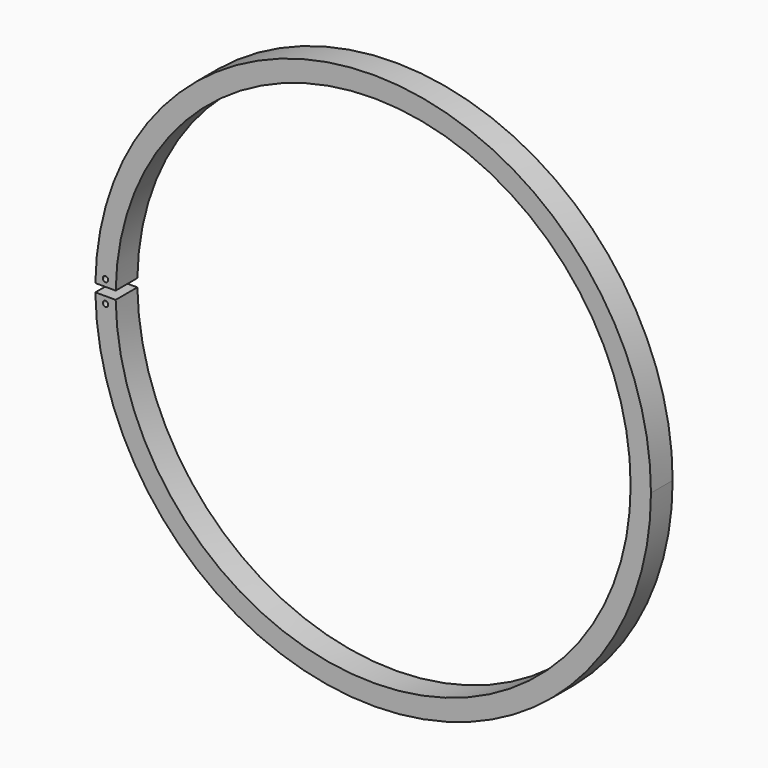
from build123d import *

# Parameters (mm, degrees)
F0_R     = 26.035
F0_R_2   = 24.13
F1_DEPTH = 1.27
F2_R     = 0.254
F3_DEPTH = 12.7


with BuildPart() as f1:
    # F0 (on Front) → F1 (new body, symmetric)
    with BuildSketch(Plane.XZ):
        Circle(F0_R)
        Circle(F0_R_2, mode=Mode.SUBTRACT)
    extrude(amount=F1_DEPTH, both=True)

    # F2 (on Front) → F3 (cut, symmetric)
    with BuildSketch(Plane.XZ):
        with BuildLine():
            Line((-24.1269919178, 0.381), (-26.0322120458, 0.381))
            ThreePointArc((-26.0322120458, 0.381), (-26.035, 0), (-26.0322120458, -0.381))
            Line((-26.0322120458, -0.381), (-24.1269919178, -0.381))
            ThreePointArc((-24.1269919178, -0.381), (-24.13, 0), (-24.1269919178, 0.381))
        make_face()
        with Locations((-25.0796019818, -1.016)):
            Circle(F2_R)
        with Locations((-25.0796019818, 1.016)):
            Circle(F2_R)
    extrude(amount=F3_DEPTH, both=True, mode=Mode.SUBTRACT)


solid = f1.part
